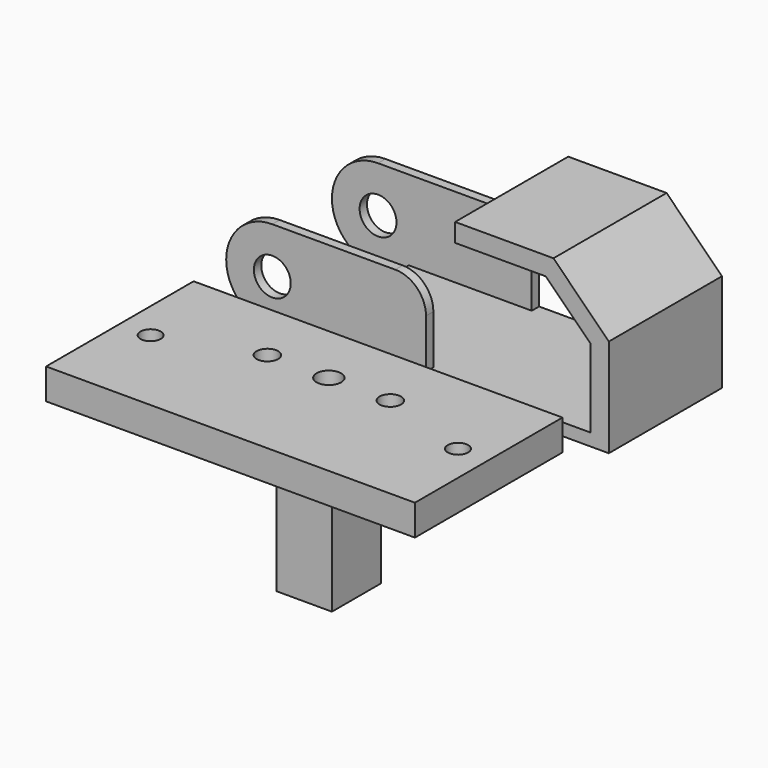
from build123d import *

# Parameters (mm, degrees)
F1_R      = 3
F2_DEPTH  = 11.5
F3_W      = 30
F3_H      = 20
F4_DEPTH  = 15.001
F5_W      = 20
F5_H      = 20
F6_DEPTH  = 32.501
F7_W      = 60
F7_H      = 30
F7_R      = 1.65
F7_R_2    = 1.75
F7_R_3    = 2
F8_DEPTH  = 5
F10_DEPTH = 5
F11_D     = 4
F12_D     = 2.5


with BuildPart() as f2:
    # F1 (on offset) → F2 (new body, symmetric)
    with BuildSketch(Plane.XZ.offset(-25)):
        with BuildLine():
            Line((-20, 0), (34.7371481067, 0))
            Line((34.7371481067, 0), (34.7371481067, 16))
            Line((34.7371481067, 16), (25.7371481067, 25))
            Line((25.7371481067, 25), (9.7371481067, 25))
            Line((9.7371481067, 25), (9.7371481067, 22))
            Line((9.7371481067, 22), (24.4945074196, 22))
            Line((24.4945074196, 22), (31.7371481067, 14.7573593129))
            Line((31.7371481067, 14.7573593129), (31.7371481067, 2))
            Line((31.7371481067, 2), (5, 2))
            Line((5, 2), (5, 10))
            ThreePointArc((5, 10), (3.5355339059, 13.5355339059), (0, 15))
            Line((0, 15), (-20, 15))
            ThreePointArc((-20, 15), (-27.5, 7.5), (-20, 0))
        make_face()
        with Locations((-20, 7.5)):
            Circle(F1_R, mode=Mode.SUBTRACT)
    extrude(amount=F2_DEPTH, both=True)

    # F3 (on face) → F4 (cut, through all)
    with BuildSketch(Plane.XY.offset(15)):
        with Locations((-30, 25)):
            Rectangle(F3_W, F3_H)
    extrude(amount=-F4_DEPTH, mode=Mode.SUBTRACT)

    # F5 (on face) → F6 (cut, through all)
    with BuildSketch(Plane.YZ.offset(5)):
        with Locations((25, 12)):
            Rectangle(F5_W, F5_H)
    extrude(amount=-F6_DEPTH, mode=Mode.SUBTRACT)


with BuildPart() as f8:
    # F7 (on Top) → F8 (new body)
    with BuildSketch(Plane.XY):
        with Locations((0, -5)):
            Rectangle(F7_W, F7_H)
        with Locations((-25, -5)):
            Circle(F7_R, mode=Mode.SUBTRACT)
        with Locations((-10, 0)):
            Circle(F7_R_2, mode=Mode.SUBTRACT)
        Circle(F7_R_3, mode=Mode.SUBTRACT)
        with Locations((10, 0)):
            Circle(F7_R_2, mode=Mode.SUBTRACT)
        with Locations((25, -5)):
            Circle(F7_R, mode=Mode.SUBTRACT)
    extrude(amount=F8_DEPTH)


with BuildPart() as f10:
    # F9 (on Front) → F10 (new body, symmetric)
    with BuildSketch(Plane.XZ):
        Polygon((15, -5), (15, 0), (-15, 0), (-15, -5), (-4.5, -5), (-4.5, -25), (4.5, -25), (4.5, -5), align=None)
    extrude(amount=F10_DEPTH, both=True)

    # F11 (through all)
    with Locations(Plane.XY):
        with Locations((0, 0)):
            Hole(F11_D / 2)

    # F12 (through all)
    with Locations(Plane.XY):
        with Locations((-10, 0), (10, 0)):
            Hole(F12_D / 2)


solid = Compound([f2.part, f8.part, f10.part])
